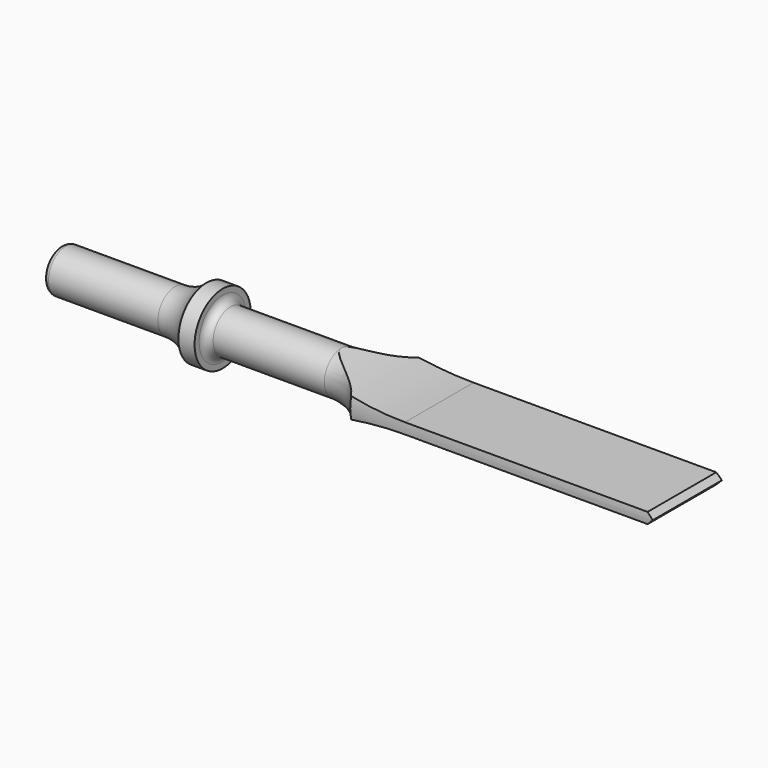
from build123d import *

# Parameters (mm, degrees)
F3_DEPTH = 48.514
F4_DEPTH = 25.4


with BuildPart() as f1:
    # F0 (on Front) → F1 (revolve)
    with BuildSketch(Plane.XZ):
        with BuildLine():
            Line((0, 4.826), (0, 0))
            Line((0, 0), (184.15, 0))
            Line((184.15, 0), (184.15, 12.7))
            Line((184.15, 12.7), (95.25, 12.7))
            ThreePointArc((95.25, 12.7), (89.649516, 8.025968), (82.55, 6.35))
            Line((82.55, 6.35), (49.8856, 6.35))
            ThreePointArc((49.8856, 6.35), (48.269154, 7.019554), (47.5996, 8.636))
            Line((47.5996, 8.636), (47.5996, 10.3124))
            Line((47.5996, 10.3124), (42.8498, 10.3124))
            ThreePointArc((42.8498, 10.3124), (38.649372, 7.382577), (33.633274, 6.35))
            Line((33.633274, 6.35), (1.524, 6.35))
            ThreePointArc((1.524, 6.35), (0.446369, 5.903631), (0, 4.826))
        make_face()
    revolve(axis=Axis((92.075, 0, 0), (1, 0, 0)))

    # F2 (on Front) → F3 (cut)
    with BuildSketch(Plane.XZ):
        with BuildLine():
            ThreePointArc((82.55, 6.35), (96.707309, 2.786206), (111.256987, 1.5875))
            Line((111.256987, 1.5875), (182.5625, 1.5875))
            Line((182.5625, 1.5875), (184.15, 0))
            Line((184.15, 0), (191.210642, 49.445584))
            Line((191.210642, 49.445584), (82.55, 49.445584))
            Line((82.55, 49.445584), (82.55, 6.35))
        make_face()
        with BuildLine():
            Line((191.210642, -49.445584), (184.15, 0))
            Line((184.15, 0), (182.5625, -1.5875))
            Line((182.5625, -1.5875), (111.256987, -1.5875))
            ThreePointArc((111.256987, -1.5875), (96.707309, -2.786206), (82.55, -6.35))
            Line((82.55, -6.35), (82.55, -49.445584))
            Line((82.55, -49.445584), (191.210642, -49.445584))
        make_face()
    extrude(amount=F3_DEPTH, mode=Mode.SUBTRACT)

    # F2 (on Front) → F4 (cut)
    with BuildSketch(Plane.XZ):
        with BuildLine():
            ThreePointArc((82.55, 6.35), (96.707309, 2.786206), (111.256987, 1.5875))
            Line((111.256987, 1.5875), (182.5625, 1.5875))
            Line((182.5625, 1.5875), (184.15, 0))
            Line((184.15, 0), (191.210642, 49.445584))
            Line((191.210642, 49.445584), (82.55, 49.445584))
            Line((82.55, 49.445584), (82.55, 6.35))
        make_face()
        with BuildLine():
            Line((191.210642, -49.445584), (184.15, 0))
            Line((184.15, 0), (182.5625, -1.5875))
            Line((182.5625, -1.5875), (111.256987, -1.5875))
            ThreePointArc((111.256987, -1.5875), (96.707309, -2.786206), (82.55, -6.35))
            Line((82.55, -6.35), (82.55, -49.445584))
            Line((82.55, -49.445584), (191.210642, -49.445584))
        make_face()
    extrude(amount=-F4_DEPTH, mode=Mode.SUBTRACT)


solid = f1.part
